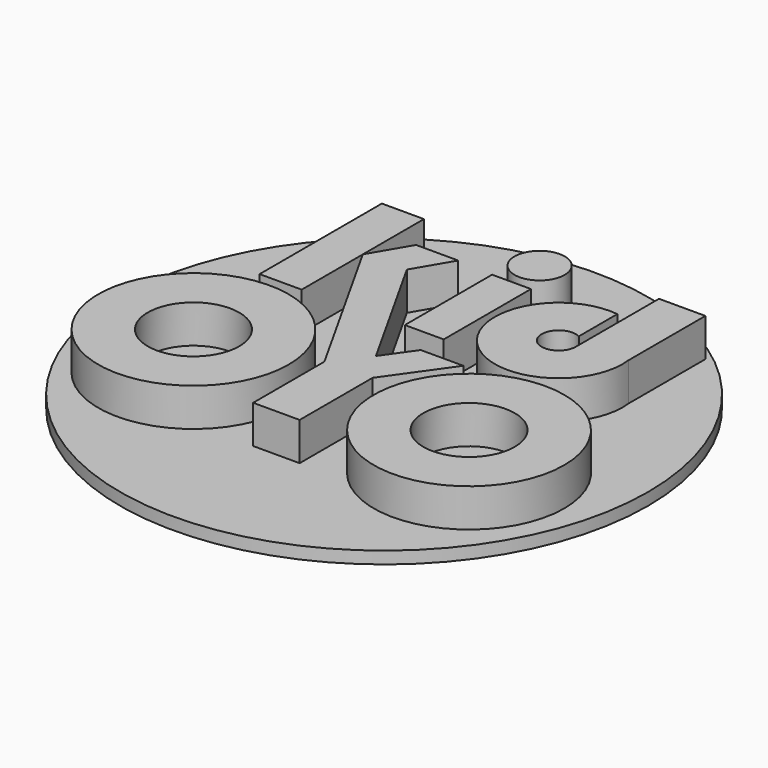
from build123d import *

# Parameters (mm, degrees)
F0_R     = 10.9982
F1_DEPTH = 0.508
F3_DEPTH = 1.27
F2_W     = 1.2951166562
F2_H     = 3.6354111349
F2_R     = 0.8361544211
F2_R_2   = 3.175
F2_R_3   = 1.524
F4_SCALE = 1.25


with BuildPart() as f1:
    # F0 (on Top) → F1 (new body)
    with BuildSketch(Plane.XY):
        Circle(F0_R)
    extrude(amount=-F1_DEPTH)


with BuildPart() as f3:
    # F2 (on Top) → F3 (new body)
    with BuildSketch(Plane.XY):
        Polygon((-0.8474276173, -1.4266951149), (-0.8474276173, -4.39561418), (0.7013171111, -4.39561418), (0.7013171111, -1.3541933216), (2.1219371717, 0.6504660684), (0.7013171111, 0.6504660684), (0, -0.3391735764), (-2.4139480535, 3.9662072577), (-1.6904811083, 5.1996577531), (-3.0943236873, 5.1996577531), (-3.8450609427, 3.9197136648), align=None)
    extrude(amount=F3_DEPTH)


with BuildPart() as f3b:
    # F2 (on Top) → F3, piece 2 (new body)
    with BuildSketch(Plane.XY):
        Polygon((-3.8450609427, 1.3726343814), (-3.8450609427, 3.9197136648), (-3.8450609427, 6.4667929482), (-5.2475911869, 6.4667929482), (-5.2475911869, 1.3726343814), align=None)
    extrude(amount=F3_DEPTH)


with BuildPart() as f3c:
    # F2 (on Top) → F3, piece 3 (new body)
    with BuildSketch(Plane.XY):
        with Locations((0.1460003935, 3.3100993147)):
            Rectangle(F2_W, F2_H)
    extrude(amount=F3_DEPTH)


with BuildPart() as f3d:
    # F2 (on Top) → F3, piece 4 (new body)
    with BuildSketch(Plane.XY):
        with Locations((0.1460003935, 6.2987548299)):
            Circle(F2_R)
    extrude(amount=F3_DEPTH)


with BuildPart() as f3e:
    # F2 (on Top) → F3, piece 5 (new body)
    with BuildSketch(Plane.XY):
        with Locations((-4.644471146, -2.1374930238)):
            Circle(F2_R_2)
        with Locations((-4.644471146, -2.1374930238)):
            Circle(F2_R_3, mode=Mode.SUBTRACT)
    extrude(amount=F3_DEPTH)


with BuildPart() as f3f:
    # F2 (on Top) → F3, piece 6 (new body)
    with BuildSketch(Plane.XY):
        with Locations((4.4984421693, -2.0841928199)):
            Circle(F2_R_2)
        with Locations((4.4984421693, -2.0841928199)):
            Circle(F2_R_3, mode=Mode.SUBTRACT)
    extrude(amount=F3_DEPTH)


with BuildPart() as f3g:
    # F2 (on Top) → F3, piece 7 (new body)
    with BuildSketch(Plane.XY):
        with BuildLine():
            Line((3.4315840051, 3.822441707), (3.4315840051, 5.4306069392))
            ThreePointArc((3.4315840051, 5.4306069392), (1.6593378456, 1.8125938265), (5.2846923269, 3.5697734468))
            Line((5.2846923269, 3.5697734468), (5.2846923269, 6.7809580791))
            Line((5.2846923269, 6.7809580791), (3.7393509245, 6.7809580791))
            Line((3.7393509245, 6.7809580791), (3.7393509245, 3.3260008253))
            ThreePointArc((3.7393509245, 3.3260008253), (3.7394367375, 3.3161076992), (3.7393509245, 3.3062145731))
            ThreePointArc((3.7393509245, 3.3062145731), (2.6792539887, 3.0240571788), (3.4315840051, 3.822441707))
        make_face()
    extrude(amount=F3_DEPTH)


with BuildPart() as f3b_1:
    # F4: moved
    add(f3b.part.scale(F4_SCALE))


with BuildPart() as f3_1:
    # F4: moved
    add(f3.part.scale(F4_SCALE))


with BuildPart() as f3c_1:
    # F4: moved
    add(f3c.part.scale(F4_SCALE))


with BuildPart() as f3d_1:
    # F4: moved
    add(f3d.part.scale(F4_SCALE))


with BuildPart() as f3g_1:
    # F4: moved
    add(f3g.part.scale(F4_SCALE))


with BuildPart() as f3f_1:
    # F4: moved
    add(f3f.part.scale(F4_SCALE))


with BuildPart() as f3e_1:
    # F4: moved
    add(f3e.part.scale(F4_SCALE))


solid = Compound([f1.part, f3b_1.part, f3_1.part, f3c_1.part, f3d_1.part, f3g_1.part, f3f_1.part, f3e_1.part])
